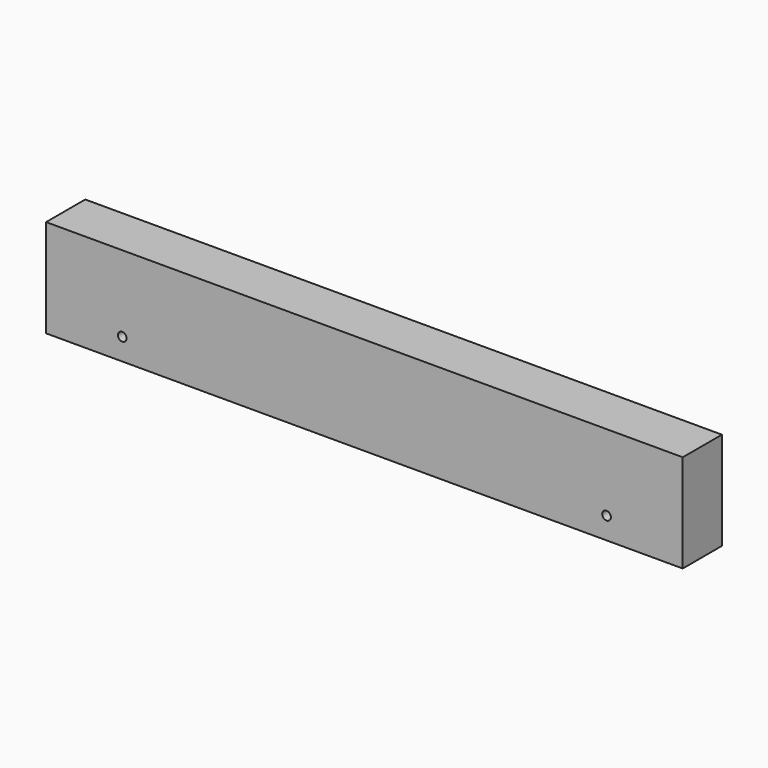
from build123d import *

# Parameters (mm, degrees)
F0_R     = 4
F1_DEPTH = 45


with BuildPart() as f1:
    # F0 (on Front) → F1 (new body)
    with BuildSketch(Plane.XZ):
        Polygon((-292.5, 532.5), (-292.5, 442.5), (-202.5, 442.5), (202.5, 442.5), (292.5, 442.5), (292.5, 532.5), align=None)
        with Locations((-222.5, 462.5)):
            Circle(F0_R, mode=Mode.SUBTRACT)
        with Locations((222.5, 462.5)):
            Circle(F0_R, mode=Mode.SUBTRACT)
    extrude(amount=F1_DEPTH)


solid = f1.part
